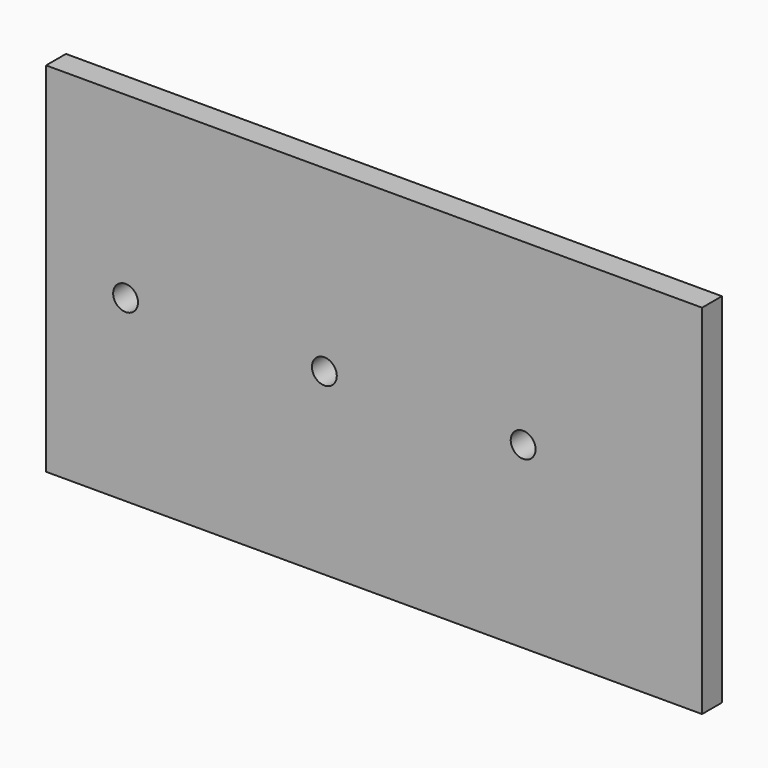
from build123d import *

# Parameters (mm, degrees)
F1_DEPTH = 3.175
F2_DEPTH = 3.175


with BuildPart() as f1:
    # F0 (on Front) → F1 (new body)
    with BuildSketch(Plane.XZ):
        Polygon((-1.5020562172, 9.5954131643), (-1.5020562172, 5.7854131643), (30.2479437828, 5.7854131643), (55.6479437828, 5.7854131643), (74.6979437828, 5.7854131643), (74.6979437828, 9.5954131643), align=None)
        Polygon((74.6979437828, -32.3145868357), (74.6979437828, -36.1245868357), (78.5079437828, -36.1245868357), (78.5079437828, 9.5954131643), (74.6979437828, 9.5954131643), (74.6979437828, 5.7854131643), (74.6979437828, -13.2645868357), align=None)
        Polygon((30.2479437828, -32.3145868357), (-1.5020562172, -32.3145868357), (-1.5020562172, -36.1245868357), (74.6979437828, -36.1245868357), (74.6979437828, -32.3145868357), (55.6479437828, -32.3145868357), align=None)
        Polygon((-1.5020562172, -36.1245868357), (-1.5020562172, -32.3145868357), (-1.5020562172, -13.2645868357), (-1.5020562172, 5.7854131643), (-1.5020562172, 9.5954131643), (-5.3120562172, 9.5954131643), (-5.3120562172, -36.1245868357), align=None)
        with BuildLine():
            ThreePointArc((36.5979437828, -13.2645868357), (38.257752582, -21.0417167691), (42.9479437828, -27.4636184928))
            ThreePointArc((42.9479437828, -27.4636184928), (47.6381349836, -21.0417167691), (49.2979437828, -13.2645868357))
            Line((49.2979437828, -13.2645868357), (36.5979437828, -13.2645868357))
        make_face()
        with BuildLine():
            ThreePointArc((36.5979437828, -13.2645868357), (30.2479437828, -6.9145868357), (23.8979437828, -13.2645868357))
            Line((23.8979437828, -13.2645868357), (28.6604437828, -13.2645868357))
            ThreePointArc((28.6604437828, -13.2645868357), (30.2479437828, -11.6770868357), (31.8354437828, -13.2645868357))
            Line((31.8354437828, -13.2645868357), (36.5979437828, -13.2645868357))
        make_face()
        with BuildLine():
            Line((28.6604437828, -13.2645868357), (23.8979437828, -13.2645868357))
            ThreePointArc((23.8979437828, -13.2645868357), (30.2479437828, -19.6145868357), (36.5979437828, -13.2645868357))
            Line((36.5979437828, -13.2645868357), (31.8354437828, -13.2645868357))
            ThreePointArc((31.8354437828, -13.2645868357), (30.2479437828, -14.8520868357), (28.6604437828, -13.2645868357))
        make_face()
        with BuildLine():
            ThreePointArc((11.1979437828, -13.2645868357), (16.7775596012, -26.7349710173), (30.2479437828, -32.3145868357))
            ThreePointArc((30.2479437828, -32.3145868357), (37.045404593, -31.060570274), (42.9479437828, -27.4636184928))
            ThreePointArc((42.9479437828, -27.4636184928), (38.257752582, -21.0417167691), (36.5979437828, -13.2645868357))
            ThreePointArc((36.5979437828, -13.2645868357), (30.2479437828, -19.6145868357), (23.8979437828, -13.2645868357))
            Line((23.8979437828, -13.2645868357), (11.1979437828, -13.2645868357))
        make_face()
        with BuildLine():
            ThreePointArc((30.2479437828, 5.7854131643), (16.7775596012, 0.2057973459), (11.1979437828, -13.2645868357))
            Line((11.1979437828, -13.2645868357), (23.8979437828, -13.2645868357))
            ThreePointArc((23.8979437828, -13.2645868357), (30.2479437828, -6.9145868357), (36.5979437828, -13.2645868357))
            ThreePointArc((36.5979437828, -13.2645868357), (38.257752582, -5.4874569024), (42.9479437828, 0.9344448214))
            ThreePointArc((42.9479437828, 0.9344448214), (37.045404593, 4.5313966025), (30.2479437828, 5.7854131643))
        make_face()
        with BuildLine():
            Line((36.5979437828, -13.2645868357), (49.2979437828, -13.2645868357))
            ThreePointArc((49.2979437828, -13.2645868357), (47.6381349836, -5.4874569024), (42.9479437828, 0.9344448214))
            ThreePointArc((42.9479437828, 0.9344448214), (38.257752582, -5.4874569024), (36.5979437828, -13.2645868357))
        make_face()
        with BuildLine():
            ThreePointArc((42.9479437828, -27.4636184928), (48.8504829726, -31.060570274), (55.6479437828, -32.3145868357))
            ThreePointArc((55.6479437828, -32.3145868357), (69.1183279644, -26.7349710173), (74.6979437828, -13.2645868357))
            Line((74.6979437828, -13.2645868357), (57.2354437828, -13.2645868357))
            ThreePointArc((57.2354437828, -13.2645868357), (55.6479437828, -14.8520868357), (54.0604437828, -13.2645868357))
            Line((54.0604437828, -13.2645868357), (49.2979437828, -13.2645868357))
            ThreePointArc((49.2979437828, -13.2645868357), (47.6381349836, -21.0417167691), (42.9479437828, -27.4636184928))
        make_face()
        with BuildLine():
            ThreePointArc((42.9479437828, -27.4636184928), (37.045404593, -31.060570274), (30.2479437828, -32.3145868357))
            Line((30.2479437828, -32.3145868357), (55.6479437828, -32.3145868357))
            ThreePointArc((55.6479437828, -32.3145868357), (48.8504829726, -31.060570274), (42.9479437828, -27.4636184928))
        make_face()
    extrude(amount=F1_DEPTH)

    # F0 (on Front) → F2 (join)
    with BuildSketch(Plane.XZ):
        with BuildLine():
            Line((-1.5020562172, 5.7854131643), (-1.5020562172, -13.2645868357))
            ThreePointArc((-1.5020562172, -13.2645868357), (4.8479437828, -6.9145868357), (11.1979437828, -13.2645868357))
            ThreePointArc((11.1979437828, -13.2645868357), (16.7775596012, 0.2057973459), (30.2479437828, 5.7854131643))
            Line((30.2479437828, 5.7854131643), (-1.5020562172, 5.7854131643))
        make_face()
        with BuildLine():
            Line((3.2604437828, -13.2645868357), (-1.5020562172, -13.2645868357))
            ThreePointArc((-1.5020562172, -13.2645868357), (4.8479437828, -19.6145868357), (11.1979437828, -13.2645868357))
            Line((11.1979437828, -13.2645868357), (6.4354437828, -13.2645868357))
            ThreePointArc((6.4354437828, -13.2645868357), (4.8479437828, -14.8520868357), (3.2604437828, -13.2645868357))
        make_face()
        with BuildLine():
            ThreePointArc((11.1979437828, -13.2645868357), (4.8479437828, -6.9145868357), (-1.5020562172, -13.2645868357))
            Line((-1.5020562172, -13.2645868357), (3.2604437828, -13.2645868357))
            ThreePointArc((3.2604437828, -13.2645868357), (4.8479437828, -11.6770868357), (6.4354437828, -13.2645868357))
            Line((6.4354437828, -13.2645868357), (11.1979437828, -13.2645868357))
        make_face()
        with BuildLine():
            Line((-1.5020562172, -13.2645868357), (-1.5020562172, -32.3145868357))
            Line((-1.5020562172, -32.3145868357), (30.2479437828, -32.3145868357))
            ThreePointArc((30.2479437828, -32.3145868357), (16.7775596012, -26.7349710173), (11.1979437828, -13.2645868357))
            ThreePointArc((11.1979437828, -13.2645868357), (4.8479437828, -19.6145868357), (-1.5020562172, -13.2645868357))
        make_face()
        with BuildLine():
            Line((55.6479437828, 5.7854131643), (30.2479437828, 5.7854131643))
            ThreePointArc((30.2479437828, 5.7854131643), (37.045404593, 4.5313966025), (42.9479437828, 0.9344448214))
            ThreePointArc((42.9479437828, 0.9344448214), (48.8504829726, 4.5313966025), (55.6479437828, 5.7854131643))
        make_face()
        with BuildLine():
            Line((57.2354437828, -13.2645868357), (74.6979437828, -13.2645868357))
            ThreePointArc((74.6979437828, -13.2645868357), (69.1183279644, 0.2057973459), (55.6479437828, 5.7854131643))
            ThreePointArc((55.6479437828, 5.7854131643), (48.8504829726, 4.5313966025), (42.9479437828, 0.9344448214))
            ThreePointArc((42.9479437828, 0.9344448214), (47.6381349836, -5.4874569024), (49.2979437828, -13.2645868357))
            Line((49.2979437828, -13.2645868357), (54.0604437828, -13.2645868357))
            ThreePointArc((54.0604437828, -13.2645868357), (55.6479437828, -11.6770868357), (57.2354437828, -13.2645868357))
        make_face()
        with BuildLine():
            ThreePointArc((74.6979437828, -13.2645868357), (69.1183279644, -26.7349710173), (55.6479437828, -32.3145868357))
            Line((55.6479437828, -32.3145868357), (74.6979437828, -32.3145868357))
            Line((74.6979437828, -32.3145868357), (74.6979437828, -13.2645868357))
        make_face()
        with BuildLine():
            ThreePointArc((55.6479437828, 5.7854131643), (69.1183279644, 0.2057973459), (74.6979437828, -13.2645868357))
            Line((74.6979437828, -13.2645868357), (74.6979437828, 5.7854131643))
            Line((74.6979437828, 5.7854131643), (55.6479437828, 5.7854131643))
        make_face()
    extrude(amount=F2_DEPTH)


solid = f1.part
